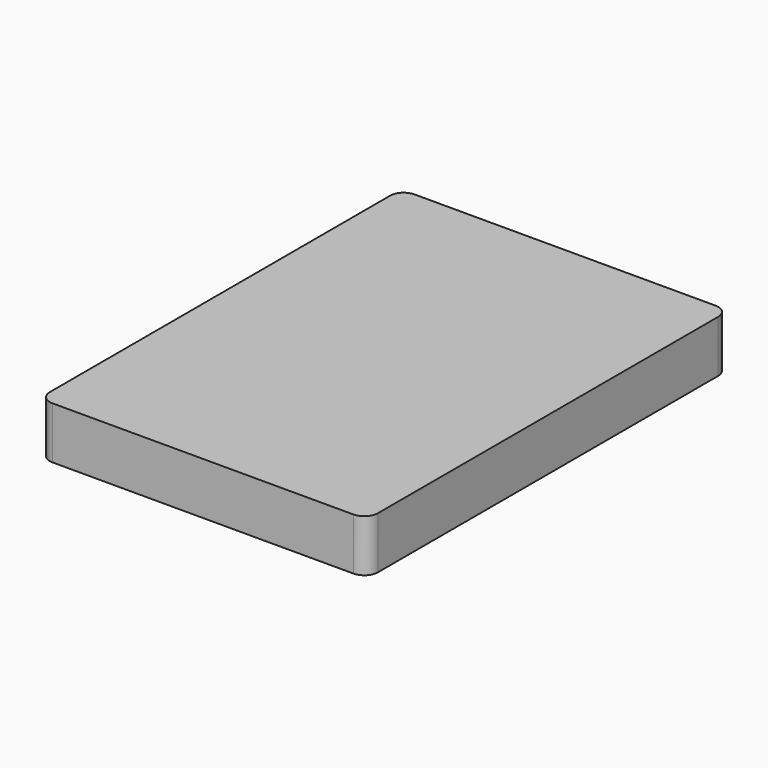
from build123d import *

# Parameters (mm, degrees)
F1_DEPTH = 115


with BuildPart() as f1:
    # F0 (on Top) → F1 (new body, symmetric)
    with BuildSketch(Plane.XY):
        with BuildLine():
            Line((665, 1000), (-665, 1000))
            ThreePointArc((-665, 1000), (-707.426407, 982.426407), (-725, 940))
            Line((-725, 940), (-725, -940))
            ThreePointArc((-725, -940), (-707.426407, -982.426407), (-665, -1000))
            Line((-665, -1000), (665, -1000))
            ThreePointArc((665, -1000), (707.426407, -982.426407), (725, -940))
            Line((725, -940), (725, 940))
            ThreePointArc((725, 940), (707.426407, 982.426407), (665, 1000))
        make_face()
    extrude(amount=F1_DEPTH, both=True)


solid = f1.part
